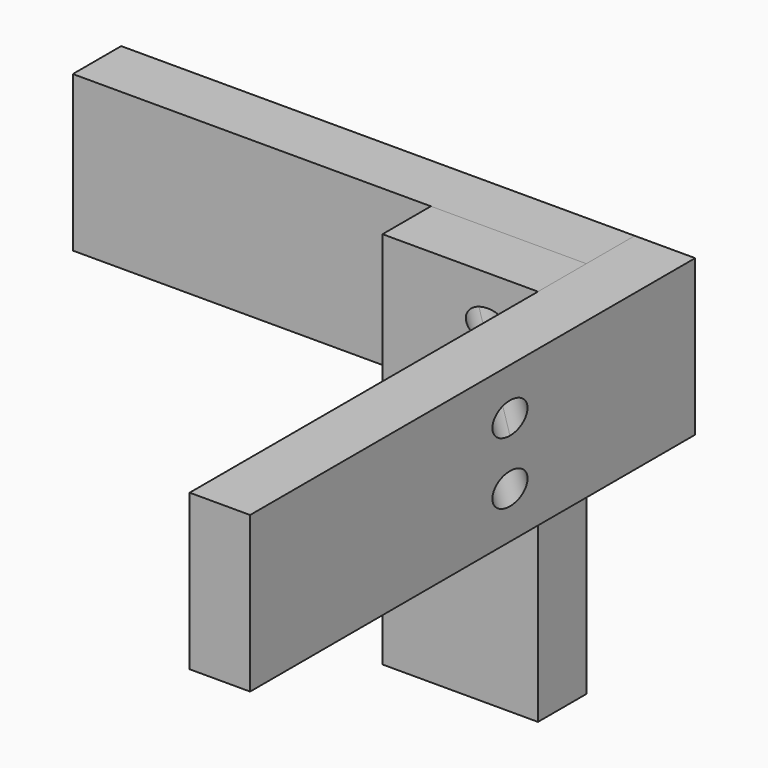
from build123d import *

# Parameters (mm, degrees)
F0_W          = 90
F0_H          = 219.295638
F1_DEPTH      = 35
F2_W          = 207.272247
F2_H          = 90
F2_W_2        = 90
F3_DEPTH      = 35
F4_W          = 35
F4_H          = 90
F4_W_2        = 287.05842
F5_DEPTH      = 35
F9_DEPTH      = 25
F9_DEPTH_BACK = 205.408499


with BuildPart() as f1:
    # F0 (on Front) → F1 (new body)
    with BuildSketch(Plane.XZ):
        with Locations((5.833983, -94.683118)):
            Rectangle(F0_W, F0_H)
    extrude(amount=F1_DEPTH)


with BuildPart() as f3:
    # F2 (on face) → F3 (new body)
    with BuildSketch(Plane(origin=(0, 0, 0), x_dir=(-1, 0, 0), z_dir=(0, 1, 0))):
        with Locations((142.80214, -30.035299)):
            Rectangle(F2_W, F2_H)
        with Locations((-5.833983, -30.035299)):
            Rectangle(F2_W_2, F2_H)
    extrude(amount=F3_DEPTH)


with BuildPart() as f5:
    # F4 (on face) → F5 (new body)
    with BuildSketch(Plane.YZ.offset(50.833983)):
        with Locations((17.5, -30.035299)):
            Rectangle(F4_W, F4_H)
        with Locations((-143.52921, -30.035299)):
            Rectangle(F4_W_2, F4_H)
    extrude(amount=F5_DEPTH)


with BuildPart() as f9_tool:
    # F8 (on face) → F9 (new body, two sides)
    with BuildSketch(Plane(origin=(-41.598333, 41.598333, 0), x_dir=(-0.707107, -0.707107, 0), z_dir=(-0.707107, 0.707107, 0))) as f9_sk:
        with BuildLine():
            ThreePointArc((9.331452, -21.035299), (15.695413, -18.39926), (18.331452, -12.035299))
            ThreePointArc((18.331452, -12.035299), (2.967491, -5.671338), (9.331452, -21.035299))
        make_face()
        with BuildLine():
            ThreePointArc((18.331452, -48.035299), (15.695413, -41.671338), (9.331452, -39.035299))
            ThreePointArc((9.331452, -39.035299), (2.967491, -54.39926), (18.331452, -48.035299))
        make_face()
    extrude(amount=F9_DEPTH)
    extrude(f9_sk.sketch, amount=-F9_DEPTH_BACK)


with BuildPart() as f1_1:
    add(f1.part)

    # F9: cut by f9_tool
    add(f9_tool.part, mode=Mode.SUBTRACT)


with BuildPart() as f3_1:
    add(f3.part)

    # F9: cut by f9_tool
    add(f9_tool.part, mode=Mode.SUBTRACT)


with BuildPart() as f5_1:
    add(f5.part)

    # F9: cut by f9_tool
    add(f9_tool.part, mode=Mode.SUBTRACT)


solid = Compound([f1_1.part, f3_1.part, f5_1.part])
